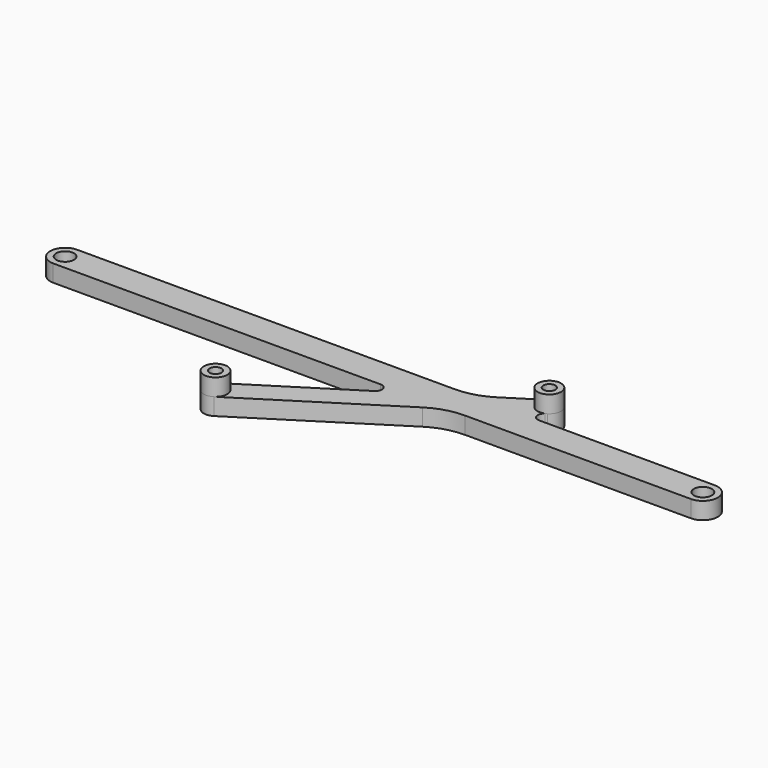
from build123d import *

# Parameters (mm, degrees)
SKETCH_R      = 2.1
SKETCH_R_2    = 1.4
PAD_DEPTH     = 4
SKETCH001_R   = 2.75
SKETCH001_R_2 = 1.4
PAD001_DEPTH  = 4
FILLET_R      = 1.5
FILLET001_R   = 15


with BuildPart() as part:
    # Sketch → Pad (new body)
    with BuildSketch(Plane.XY):
        with BuildLine():
            ThreePointArc((75, -3.5), (78.5, 0), (75, 3.5))
            Line((75, 3.5), (28.492801, 3.5))
            Line((28.492801, 3.5), (33.271499, 6.526815))
            ThreePointArc((33.271499, 6.526815), (34.123185, 10.321499), (30.328501, 11.173185))
            Line((30.328501, 11.173185), (18.214169, 3.5))
            Line((18.214169, 3.5), (-75, 3.5))
            ThreePointArc((-75, 3.5), (-78.5, 0), (-75, -3.5))
            Line((-75, -3.5), (7.162654, -3.5))
            Line((7.162654, -3.5), (-21.771499, -21.826815))
            ThreePointArc((-21.771499, -21.826815), (-22.623185, -25.621499), (-18.828501, -26.473185))
            Line((-18.828501, -26.473185), (17.441286, -3.5))
            Line((17.441286, -3.5), (75, -3.5))
        make_face()
        with Locations((-75, 0)):
            Circle(SKETCH_R, mode=Mode.SUBTRACT)
        with Locations((75, 0)):
            Circle(SKETCH_R, mode=Mode.SUBTRACT)
        with Locations((-20.3, -24.15)):
            Circle(SKETCH_R_2, mode=Mode.SUBTRACT)
        with Locations((31.8, 8.85)):
            Circle(SKETCH_R_2, mode=Mode.SUBTRACT)
    extrude(amount=PAD_DEPTH)

    # Sketch001 (on Face18 of Pad) → Pad001 (join)
    with BuildSketch(Plane.XY.offset(4)):
        with Locations((31.8, 8.85)):
            Circle(SKETCH001_R)
        with Locations((31.8, 8.85)):
            Circle(SKETCH001_R_2, mode=Mode.SUBTRACT)
        with Locations((-20.3, -24.15)):
            Circle(SKETCH001_R)
        with Locations((-20.3, -24.15)):
            Circle(SKETCH001_R_2, mode=Mode.SUBTRACT)
    extrude(amount=PAD001_DEPTH)

    # Fillet
    fillet_edges = [part.edges().sort_by_distance(p)[0] for p in [
        (7.162654, -3.5, 2),
        (28.492801, 3.5, 2),
    ]]
    fillet(fillet_edges, radius=FILLET_R)

    # Fillet001
    fillet001_edges = [part.edges().sort_by_distance(p)[0] for p in [
        (17.441286, -3.5, 2),
        (18.214169, 3.5, 2),
    ]]
    fillet(fillet001_edges, radius=FILLET001_R)


solid = part.part
